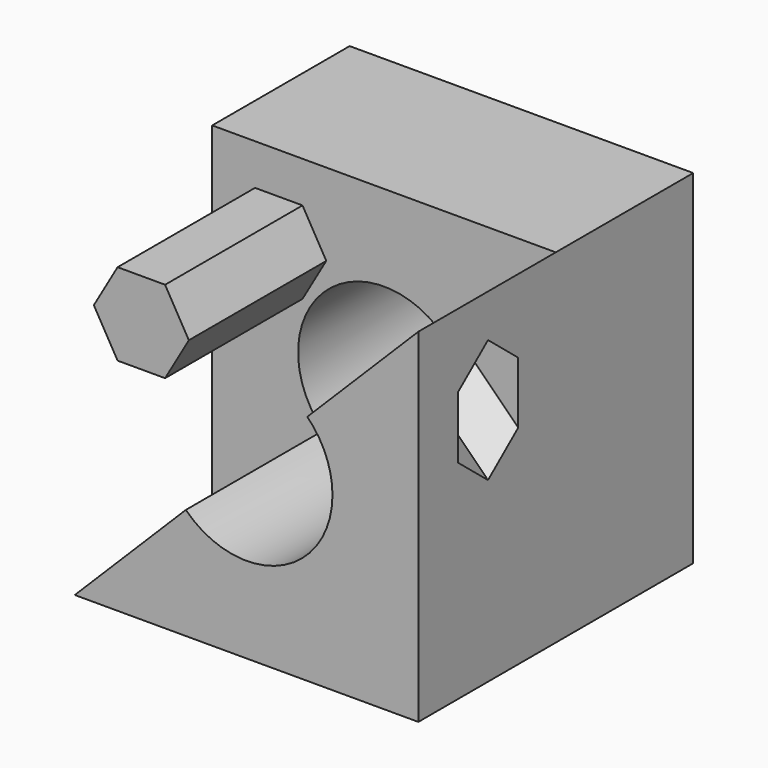
from build123d import *

# Parameters (mm, degrees)
F0_W     = 50
F0_H     = 50
F0_R     = 12.5
F1_DEPTH = 25
F3_DEPTH = 25
F5_DEPTH = 50
F7_DEPTH = 25


with BuildPart() as f1:
    # F0 (on Front) → F1 (new body)
    with BuildSketch(Plane.XZ):
        Rectangle(F0_W, F0_H)
        Circle(F0_R, mode=Mode.SUBTRACT)
    extrude(amount=F1_DEPTH)

    # F2 (on face) → F3 (join)
    with BuildSketch(Plane.XZ.offset(25)):
        with BuildLine():
            Line((-8.8388347648, -8.8388347648), (-25, -25))
            Line((-25, -25), (25, -25))
            Line((25, -25), (25, 25))
            Line((25, 25), (8.8388347648, 8.8388347648))
            ThreePointArc((8.8388347648, 8.8388347648), (11.5484941564, 4.7835429046), (12.5, 0))
            ThreePointArc((12.5, 0), (4.7835429046, -11.5484941564), (-8.8388347648, -8.8388347648))
        make_face()
    extrude(amount=F3_DEPTH)

    # F4 (on face) → F5 (cut)
    with BuildSketch(Plane(origin=(0, 0, 0), x_dir=(0, -1, 0), z_dir=(-0.7071067812, 0, 0.7071067812))):
        Polygon((40.7957995796, -31.3931250338), (40.7957995796, -19.3931250338), (30.4034947342, -25.3931250338), align=None)
        Polygon((42.8262037943, 21.4346205463), (42.8262037943, 27.7791293861), (37.3316979645, 30.951383806), (31.8371921347, 27.7791293861), (31.8371921347, 21.4346205463), (37.3316979645, 18.2623661264), align=None)
    extrude(amount=-F5_DEPTH, mode=Mode.SUBTRACT)

    # F6 (on face) → F7 (join)
    with BuildSketch(Plane.XZ.offset(25)):
        Polygon((-11.8569600062, 19.0248098224), (-18.7698883339, 19.0248098224), (-22.2263524977, 13.0380382761), (-18.7698883339, 7.0512667298), (-11.8569600062, 7.0512667298), (-8.4004958423, 13.0380382761), align=None)
    extrude(amount=F7_DEPTH)


solid = f1.part
